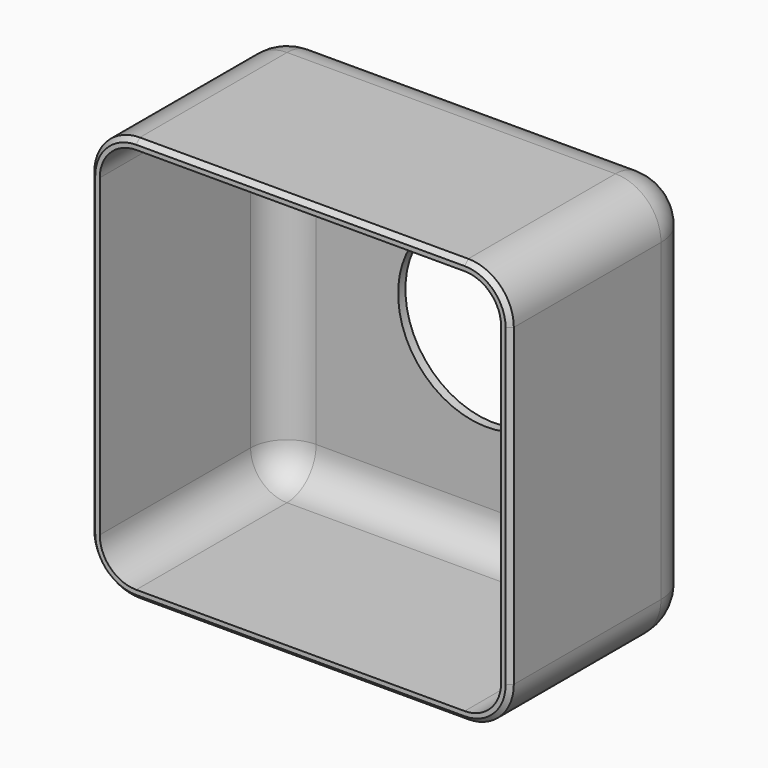
from build123d import *

# Parameters (mm, degrees)
F0_W     = 116.999064
F0_H     = 113.067575
F1_DEPTH = 65.278
F2_R     = 12.7
F3_T     = -2.54
F4_R     = 24.811163
F5_DEPTH = 64.008
F6_SIZE  = 1.27


with BuildPart() as f1:
    # F0 (on Front) → F1 (new body)
    with BuildSketch(Plane.XZ):
        with Locations((-1.865206, -0.708006)):
            Rectangle(F0_W, F0_H)
    extrude(amount=F1_DEPTH)

    # F2
    f2_edges = [f1.edges().sort_by_distance(p)[0] for p in [
        (-1.865206, 0, 55.825781),
        (56.634326, -32.639, 55.825781),
        (56.634326, 0, -0.708006),
        (56.634326, -32.639, -57.241794),
        (-1.865206, 0, -57.241794),
        (-60.364738, -32.639, -57.241794),
        (-60.364738, 0, -0.708006),
        (-60.364738, -32.639, 55.825781),
    ]]
    fillet(f2_edges, radius=F2_R)

    # F3
    f3_openings = [f1.faces().sort_by_distance(p)[0] for p in [
        (-1.865206, -65.278, -0.708006),
    ]]
    offset(amount=F3_T, openings=f3_openings)

    # F4 (on face) → F5 (cut)
    with BuildSketch(Plane.XZ.offset(2.54)):
        Circle(F4_R)
    extrude(amount=-F5_DEPTH, mode=Mode.SUBTRACT)

    # F6
    f6_edges = [f1.edges().sort_by_distance(p)[0] for p in [
        (-1.865206, -65.278, 55.825781),
    ]]
    chamfer(f6_edges, length=F6_SIZE)


solid = f1.part
